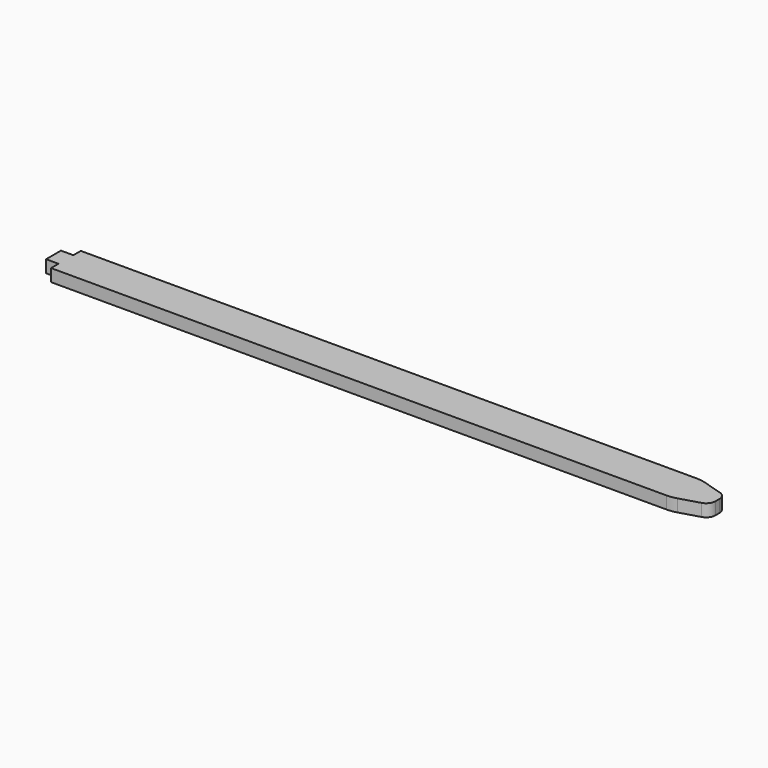
from build123d import *

# Parameters (mm, degrees)
PAD_DEPTH   = 8
FILLET_R    = 6
FILLET001_R = 23


with BuildPart() as part:
    # Sketch → Pad (new body)
    with BuildSketch(Plane.XY):
        Polygon((-8, 6), (0, 6), (0, 12), (400, 12), (420, 6), (420, -6), (400, -12), (0, -12), (0, -6), (-8, -6), align=None)
    extrude(amount=PAD_DEPTH)

    # Fillet
    fillet_edges = [part.edges().sort_by_distance(p)[0] for p in [
        (420, -6, 4),
        (420, 6, 4),
    ]]
    fillet(fillet_edges, radius=FILLET_R)

    # Fillet001
    fillet001_edges = [part.edges().sort_by_distance(p)[0] for p in [
        (400, 12, 4),
        (400, -12, 4),
    ]]
    fillet(fillet001_edges, radius=FILLET001_R)


solid = part.part
